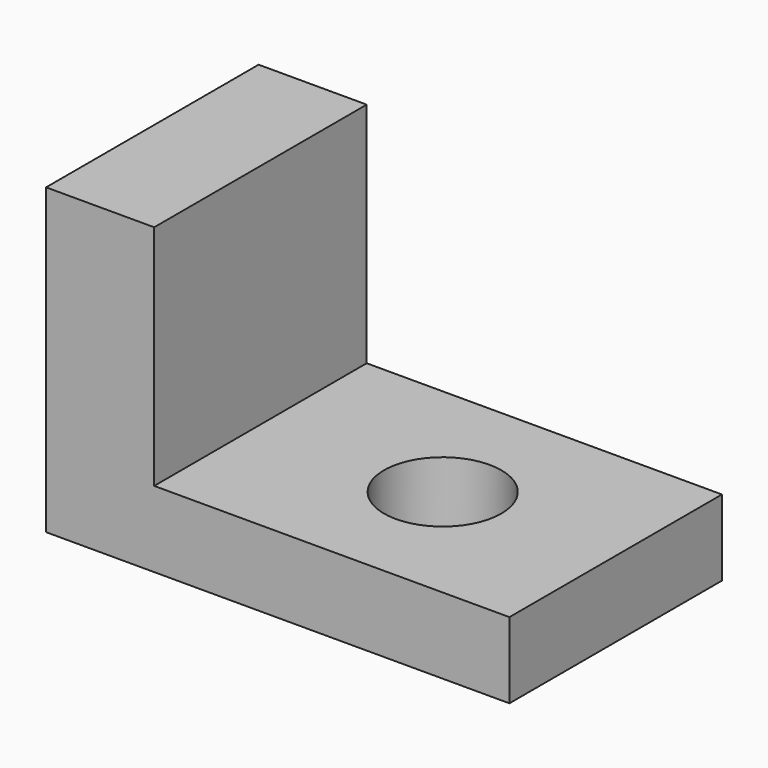
from build123d import *

# Parameters (mm, degrees)
F0_W     = 5.697675
F0_H     = 14
F1_DEPTH = 16
F0_W_2   = 18.721885
F0_R     = 3.093022
F2_DEPTH = 4


with BuildPart() as f1:
    # F0 (on Top) → F1 (new body)
    with BuildSketch(Plane.XY):
        with Locations((-19.26499, 9.749768)):
            Rectangle(F0_W, F0_H)
    extrude(amount=F1_DEPTH)

    # F0 (on Top) → F2 (join)
    with BuildSketch(Plane.XY):
        with Locations((-7.05521, 9.749768)):
            Rectangle(F0_W_2, F0_H)
        with Locations((-6.811025, 9.749768)):
            Circle(F0_R, mode=Mode.SUBTRACT)
    extrude(amount=F2_DEPTH)


solid = f1.part
